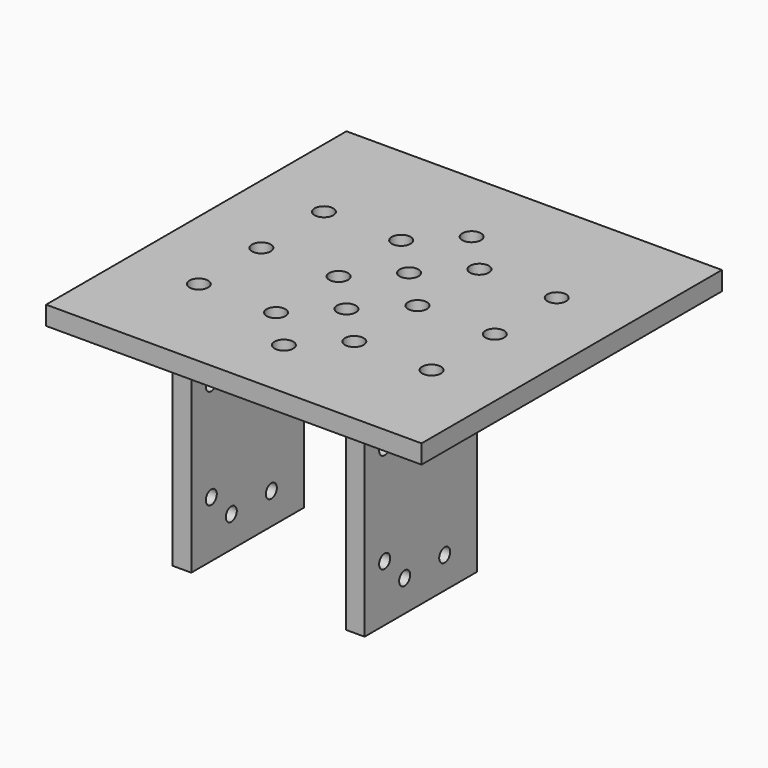
from build123d import *

# Parameters (mm, degrees)
SKETCH_W     = 60
SKETCH_H     = 60
SKETCH_R     = 1.5
PAD_DEPTH    = 3
SKETCH001_W  = 3
SKETCH001_H  = 22.5
PAD001_DEPTH = 32.5
SKETCH002_R  = 1.1
POCKET_DEPTH = 60


with BuildPart() as part:
    # Sketch → Pad (new body)
    with BuildSketch(Plane.XY):
        Rectangle(SKETCH_W, SKETCH_H)
        with Locations((0, 17.5)):
            Circle(SKETCH_R, mode=Mode.SUBTRACT)
        with Locations((0, 5)):
            Circle(SKETCH_R, mode=Mode.SUBTRACT)
        with Locations((0, -7.5)):
            Circle(SKETCH_R, mode=Mode.SUBTRACT)
        with Locations((0, -20)):
            Circle(SKETCH_R, mode=Mode.SUBTRACT)
        with Locations((-6.25, 11.25)):
            Circle(SKETCH_R, mode=Mode.SUBTRACT)
        with Locations((-18.6, 11.25)):
            Circle(SKETCH_R, mode=Mode.SUBTRACT)
        with Locations((6.25, 11.25)):
            Circle(SKETCH_R, mode=Mode.SUBTRACT)
        with Locations((18.6, 11.25)):
            Circle(SKETCH_R, mode=Mode.SUBTRACT)
        with Locations((-18.6, -1.25)):
            Circle(SKETCH_R, mode=Mode.SUBTRACT)
        with Locations((-18.6, -13.75)):
            Circle(SKETCH_R, mode=Mode.SUBTRACT)
        with Locations((18.7, -1.25)):
            Circle(SKETCH_R, mode=Mode.SUBTRACT)
        with Locations((18.6, -13.75)):
            Circle(SKETCH_R, mode=Mode.SUBTRACT)
        with Locations((-6.25, -13.75)):
            Circle(SKETCH_R, mode=Mode.SUBTRACT)
        with Locations((6.25, -13.75)):
            Circle(SKETCH_R, mode=Mode.SUBTRACT)
        with Locations((-6.25, -1.25)):
            Circle(SKETCH_R, mode=Mode.SUBTRACT)
        with Locations((6.35, -1.25)):
            Circle(SKETCH_R, mode=Mode.SUBTRACT)
    extrude(amount=PAD_DEPTH)

    # Sketch001 (on Face21 of Pad) → Pad001 (join)
    with BuildSketch(Plane(origin=(0, 0, 0), x_dir=(1, 0, 0), z_dir=(0, 0, -1))):
        with Locations((-14.7, 10.75)):
            Rectangle(SKETCH001_W, SKETCH001_H)
        with Locations((13, 10.75)):
            Rectangle(SKETCH001_W, SKETCH001_H)
    extrude(amount=PAD001_DEPTH)

    # Sketch002 (on Face18 of Pad001) → Pocket (cut)
    with BuildSketch(Plane.YZ.offset(14.5)):
        with Locations((-18, -23.5)):
            Circle(SKETCH002_R)
        with Locations((-6, -27.5)):
            Circle(SKETCH002_R)
        with Locations((-18, -7.5)):
            Circle(SKETCH002_R)
        with Locations((-14, -27.5)):
            Circle(SKETCH002_R)
    extrude(amount=-POCKET_DEPTH, mode=Mode.SUBTRACT)


solid = part.part
